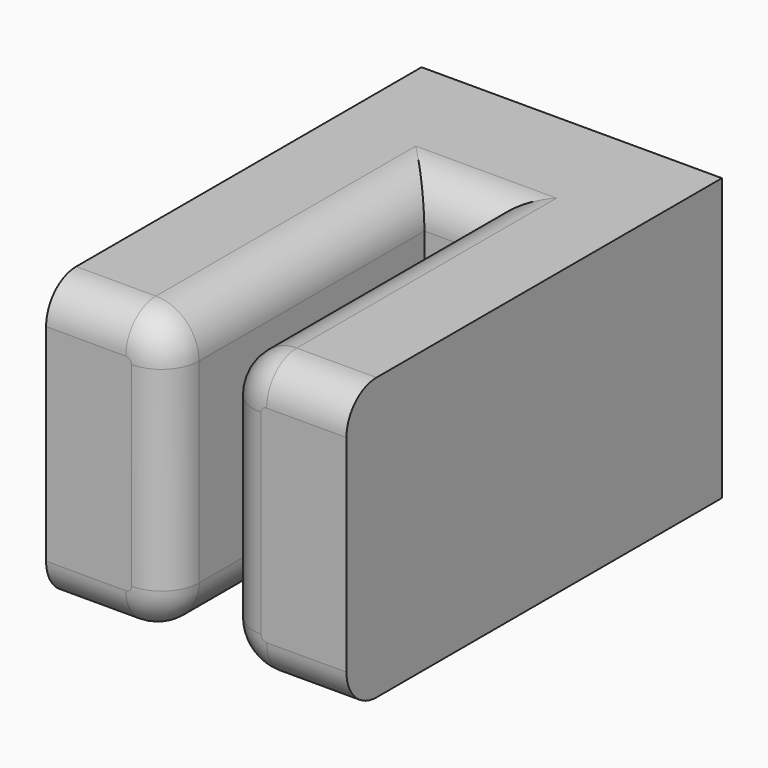
from build123d import *

# Parameters (mm, degrees)
F1_DEPTH = 15
F2_R     = 2.3
F3_R     = 2


with BuildPart() as f1:
    # F0 (on Top) → F1 (new body)
    with BuildSketch(Plane.XY):
        Polygon((-1.45, 8.5), (1.45, 8.5), (1.45, -8.5), (8, -8.5), (8, 16.5), (0, 16.5), (-8, 16.5), (-8, -8.5), (-1.45, -8.5), align=None)
    extrude(amount=F1_DEPTH)

    # F2
    f2_edges = [f1.edges().sort_by_distance(p)[0] for p in [
        (-1.45, 0, 15),
        (0, 8.5, 15),
        (1.45, 0, 15),
        (1.45, 0, 0),
        (0, 8.5, 0),
        (-1.45, 0, 0),
    ]]
    fillet(f2_edges, radius=F2_R)

    # F3
    f3_edges = [f1.edges().sort_by_distance(p)[0] for p in [
        (-5.875, -8.5, 15),
        (5.875, -8.5, 15),
    ]]
    fillet(f3_edges, radius=F3_R)


solid = f1.part
